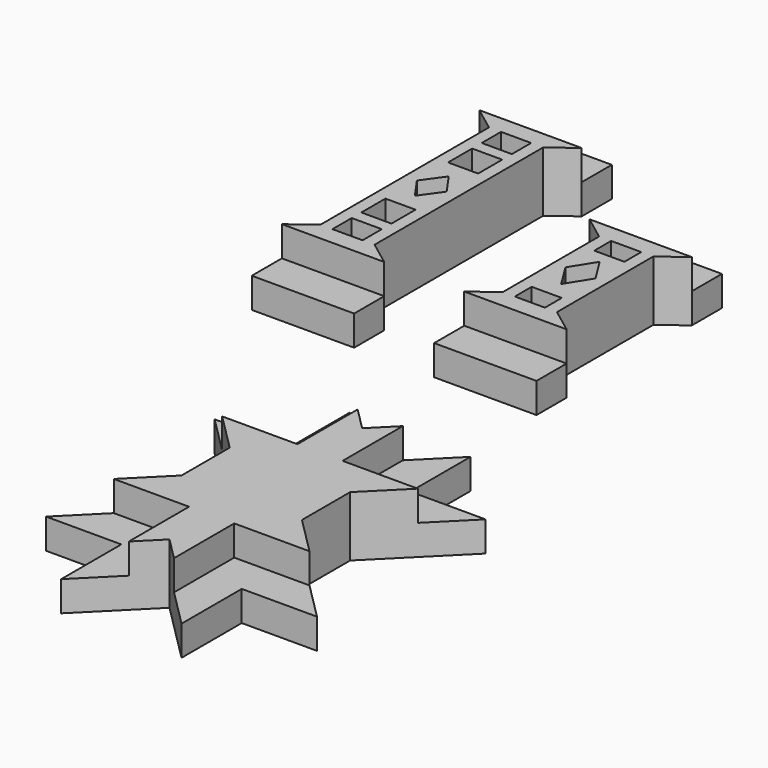
from build123d import *

# Parameters (mm, degrees)
PAD_DEPTH       = 20
POCKET_DEPTH    = 10
POCKET001_DEPTH = 10
SKETCH008_W     = 10
SKETCH008_H     = 8
SKETCH008_H_2   = 10
POCKET007_DEPTH = 20.001
PAD001_DEPTH    = 20
POCKET002_DEPTH = 10
SKETCH009_W     = 10
SKETCH009_H     = 7
POCKET006_DEPTH = 20.001
PAD002_DEPTH    = 20
POCKET003_DEPTH = 10
POCKET004_DEPTH = 10


with BuildPart() as body:
    # Sketch → Pad (new body)
    with BuildSketch(Plane.XY):
        Polygon((-34.000003, 107.000004), (-3e-06, 107.000004), (-3e-06, 94.500004), (-7.999984, 88.499979), (-7.999984, 18.499979), (3.2e-05, 12.5), (0, 0), (-34, 0), (-34, 12.5), (-25.999984, 18.499979), (-25.999984, 88.499979), (-33.999965, 94.500004), align=None)
    extrude(amount=PAD_DEPTH)

    # Sketch003 (on Face14 of Pad) → Pocket (cut)
    with BuildSketch(Plane.XY.offset(20)):
        Polygon((-34, 12.5), (3.2e-05, 12.5), (0, 0), (-34, 0), align=None)
    extrude(amount=-POCKET_DEPTH, mode=Mode.SUBTRACT)

    # Sketch004 (on Face5 of Pocket) → Pocket001 (cut)
    with BuildSketch(Plane.XY.offset(20)):
        Polygon((-33.999965, 94.500004), (-3e-06, 94.500004), (-3e-06, 107.000004), (-34.000003, 107.000004), align=None)
    extrude(amount=-POCKET001_DEPTH, mode=Mode.SUBTRACT)

    # Sketch008 (on Face16 of Pocket001) → Pocket007 (cut, through all)
    with BuildSketch(Plane.XY.offset(20)):
        with Locations((-16.999984, 84.500004)):
            Rectangle(SKETCH008_W, SKETCH008_H)
        with Locations((-16.999984, 22.5)):
            Rectangle(SKETCH008_W, SKETCH008_H)
        with Locations((-16.999984, 35.5)):
            Rectangle(SKETCH008_W, SKETCH008_H_2)
        with Locations((-16.999984, 71.500004)):
            Rectangle(SKETCH008_W, SKETCH008_H_2)
        Polygon((-16.969085, 60.500004), (-21.959162, 53.521893), (-17.030885, 46.5), (-12.040809, 53.478111), align=None)
    extrude(amount=-POCKET007_DEPTH, mode=Mode.SUBTRACT)


with BuildPart() as i2_4cm:
    # Sketch001 → Pad001 (new body)
    with BuildSketch(Plane.XY):
        Polygon((-33.999992, 76.999989), (8e-06, 76.999989), (8e-06, 64.499989), (-7.999978, 58.49997), (-7.999978, 18.49997), (4.5e-05, 12.5), (0, 0), (-34, 0), (-34, 12.5), (-25.999978, 18.49997), (-25.999978, 58.49997), (-33.999963, 64.499989), align=None)
    extrude(amount=PAD001_DEPTH)

    # Sketch005 (on Face14 of Pad001) → Pocket002 (cut)
    with BuildSketch(Plane.XY.offset(20)):
        Polygon((-34, 12.5), (4.5e-05, 12.5), (0, 0), (-34, 0), align=None)
        Polygon((-33.999963, 64.499989), (-33.999992, 76.999989), (8e-06, 76.999989), (8e-06, 64.499989), align=None)
    extrude(amount=-POCKET002_DEPTH, mode=Mode.SUBTRACT)

    # Sketch009 (on Face16 of Pocket002) → Pocket006 (cut, through all)
    with BuildSketch(Plane.XY.offset(20)):
        with Locations((-16.999978, 54.999989)):
            Rectangle(SKETCH009_W, SKETCH009_H)
        with Locations((-16.999978, 22)):
            Rectangle(SKETCH009_W, SKETCH009_H)
        Polygon((-21.999978, 39.5), (-16.999978, 31.500011), (-11.999978, 39.5), (-16.999978, 47.499989), align=None)
    extrude(amount=-POCKET006_DEPTH, mode=Mode.SUBTRACT)


with BuildPart() as i2_4cm_1:
    # Body001 placement: moved
    add(i2_4cm.part.moved(Location((60.5835, 0, 0))))


with BuildPart() as star:
    # Sketch002 → Pad002 (new body)
    with BuildSketch(Plane.XY):
        Polygon((33.87, -44), (53.87, -64), (73.87, -44), (73.87, -69), (98.87, -69), (73.87, -94), (73.87, -114), (98.87, -139), (73.87, -139), (73.87, -164), (53.87, -144), (33.87, -164), (33.87, -139), (8.87, -139), (33.87, -114), (33.87, -94), (8.87, -69), (33.87, -69), align=None)
    extrude(amount=PAD002_DEPTH)

    # Sketch006 (on Face20 of Pad002) → Pocket003 (cut)
    with BuildSketch(Plane.XY.offset(20)):
        Polygon((21.37, -126.5), (46.37, -126.5), (46.37, -151.5), (33.87, -164), (33.87, -139), (8.87, -139), align=None)
        Polygon((21.37, -81.5), (46.37, -81.5), (46.37, -56.5), (33.87, -44), (33.87, -69), (8.87, -69), align=None)
        Polygon((73.87, -44), (61.37, -56.5), (61.37, -81.5), (86.37, -81.5), (98.87, -69), (73.87, -69), align=None)
    extrude(amount=-POCKET003_DEPTH, mode=Mode.SUBTRACT)

    # Sketch007 (on Face23 of Pocket003) → Pocket004 (cut)
    with BuildSketch(Plane.XY.offset(20)):
        Polygon((61.37, -151.5), (61.37, -126.5), (86.37, -126.5), (98.87, -139), (73.87, -139), (73.87, -164), align=None)
    extrude(amount=-POCKET004_DEPTH, mode=Mode.SUBTRACT)


solid = Compound([body.part, i2_4cm_1.part, star.part])
